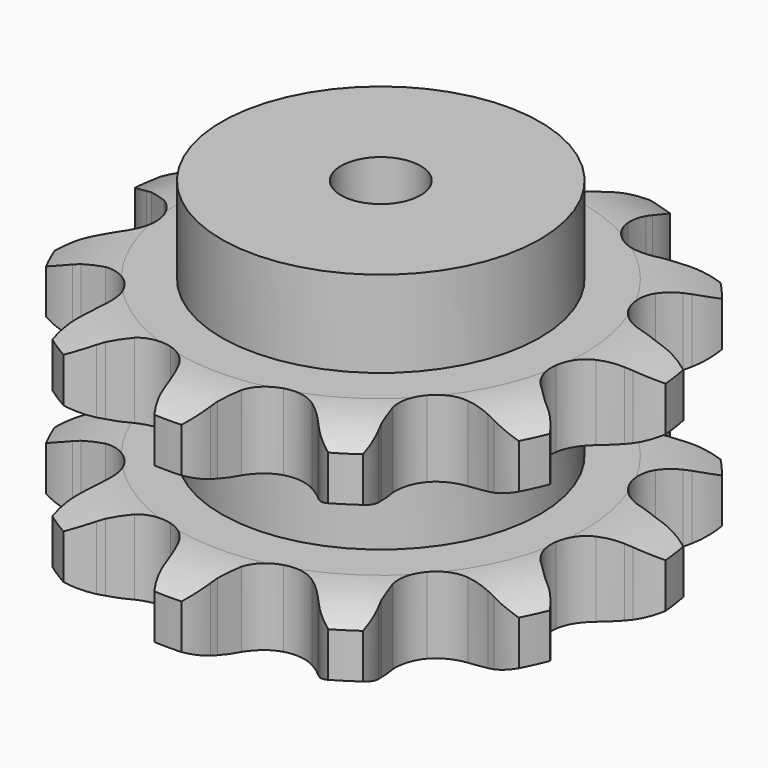
from build123d import *

# Parameters (mm, degrees)
PAD_DEPTH         = 87.4
SKETCH001_R       = 60
PAD001_DEPTH      = 120
SKETCH002_R       = 15
POCKET_DEPTH      = 0.001
POCKET_DEPTH_BACK = 120.001


with BuildPart() as part:
    # Sprocket → Pad (new body)
    with BuildSketch(Plane.XY):
        with BuildLine():
            ThreePointArc((-29.83063, 101.593796), (-22.517795, 96.966518), (-17.239006, 90.109138))
            Line((-17.239006, 90.109138), (-15.985869, 87.706539))
            ThreePointArc((-15.985869, 87.706539), (-13.79197, 84.022252), (-11.197808, 80.607946))
            ThreePointArc((-11.197808, 80.607946), (-6.16635, 76.794521), (0, 75.4403))
            ThreePointArc((0, 75.4403), (6.16635, 76.794521), (11.197808, 80.607946))
            ThreePointArc((11.197808, 80.607946), (13.79197, 84.022252), (15.985869, 87.706539))
            Line((15.985869, 87.706539), (17.239006, 90.109138))
            ThreePointArc((17.239006, 90.109138), (22.517795, 96.966518), (29.83063, 101.593796))
            ThreePointArc((29.83063, 101.593796), (33.480883, 93.747465), (34.214303, 85.124741))
            Line((34.214303, 85.124741), (33.969566, 82.426049))
            ThreePointArc((33.969566, 82.426049), (33.823316, 78.140519), (34.159751, 73.865712))
            ThreePointArc((34.159751, 73.865712), (36.330789, 67.937442), (40.786105, 63.464419))
            ThreePointArc((40.786105, 63.464419), (46.705716, 61.269882), (53.000141, 61.757728))
            Line((53.000141, 61.757728), (60.865904, 65.140822))
            ThreePointArc((60.865904, 65.140822), (62.030524, 65.833607), (63.219053, 66.48452))
            ThreePointArc((63.219053, 66.48452), (71.367232, 69.399387), (80.020876, 69.338484))
            ThreePointArc((80.020876, 69.338484), (78.849617, 60.764254), (74.804813, 53.11384))
            Line((74.804813, 53.11384), (73.139904, 50.975871))
            ThreePointArc((73.139904, 50.975871), (70.699938, 47.449722), (68.67183, 43.671635))
            ThreePointArc((68.67183, 43.671635), (67.293159, 37.510706), (68.62291, 31.339033))
            ThreePointArc((68.62291, 31.339033), (72.416348, 26.292488), (77.975305, 23.299867))
            Line((77.975305, 23.299867), (86.421444, 21.893355))
            ThreePointArc((86.421444, 21.893355), (87.775732, 21.846521), (89.127497, 21.751537))
            ThreePointArc((89.127497, 21.751537), (97.558077, 19.798441), (104.805059, 15.068693))
            ThreePointArc((104.805059, 15.068693), (99.184155, 8.488822), (91.645323, 4.239671))
            Line((91.645323, 4.239671), (89.088839, 3.341214))
            ThreePointArc((89.088839, 3.341214), (85.129829, 1.693974), (81.381088, -0.387877))
            ThreePointArc((81.381088, -0.387877), (76.890427, -4.825415), (74.672426, -10.736274))
            ThreePointArc((74.672426, -10.736274), (75.1353, -17.032585), (78.19386, -22.555537))
            Line((78.19386, -22.555537), (84.538787, -28.305098))
            ThreePointArc((84.538787, -28.305098), (85.652766, -29.07668), (86.73859, -29.887406))
            ThreePointArc((86.73859, -29.887406), (92.774922, -36.08837), (96.314377, -43.985302))
            ThreePointArc((96.314377, -43.985302), (88.028424, -46.481751), (79.389091, -45.980564))
            Line((79.389091, -45.980564), (76.752697, -45.354255))
            ThreePointArc((76.752697, -45.354255), (72.531601, -44.599599), (68.252426, -44.32424))
            ThreePointArc((68.252426, -44.32424), (62.075527, -45.6295), (57.013974, -49.40289))
            ThreePointArc((57.013974, -49.40289), (53.999326, -54.949933), (53.586417, -61.249718))
            Line((53.586417, -61.249718), (55.815662, -69.516882))
            ThreePointArc((55.815662, -69.516882), (56.335652, -70.768242), (56.810794, -72.037308))
            ThreePointArc((56.810794, -72.037308), (58.536385, -80.517379), (57.24456, -89.074274))
            ThreePointArc((57.24456, -89.074274), (48.924291, -86.694697), (41.927383, -81.602295))
            Line((41.927383, -81.602295), (40.048116, -79.650068))
            ThreePointArc((40.048116, -79.650068), (36.905102, -76.733114), (33.454101, -74.187971))
            ThreePointArc((33.454101, -74.187971), (27.552086, -71.946542), (21.253988, -72.384437))
            ThreePointArc((21.253988, -72.384437), (15.718948, -75.421065), (11.965665, -80.497545))
            Line((11.965665, -80.497545), (9.371458, -88.657548))
            ThreePointArc((9.371458, -88.657548), (9.132366, -89.991386), (8.845972, -91.315874))
            ThreePointArc((8.845972, -91.315874), (5.712959, -99.382688), (0, -105.882793))
            ThreePointArc((0, -105.882793), (-5.712959, -99.382688), (-8.845972, -91.315874))
            Line((-8.845972, -91.315874), (-9.371458, -88.657548))
            ThreePointArc((-9.371458, -88.657548), (-10.438506, -84.504408), (-11.965665, -80.497545))
            ThreePointArc((-11.965665, -80.497545), (-15.718948, -75.421065), (-21.253988, -72.384437))
            ThreePointArc((-21.253988, -72.384437), (-27.552086, -71.946542), (-33.454101, -74.187971))
            Line((-33.454101, -74.187971), (-40.048116, -79.650068))
            ThreePointArc((-40.048116, -79.650068), (-40.970381, -80.642901), (-41.927383, -81.602295))
            ThreePointArc((-41.927383, -81.602295), (-48.924291, -86.694697), (-57.24456, -89.074274))
            ThreePointArc((-57.24456, -89.074274), (-58.536385, -80.517379), (-56.810794, -72.037308))
            Line((-56.810794, -72.037308), (-55.815662, -69.516882))
            ThreePointArc((-55.815662, -69.516882), (-54.467962, -65.446149), (-53.586417, -61.249718))
            ThreePointArc((-53.586417, -61.249718), (-53.999326, -54.949933), (-57.013974, -49.40289))
            ThreePointArc((-57.013974, -49.40289), (-62.075527, -45.6295), (-68.252426, -44.32424))
            Line((-68.252426, -44.32424), (-76.752697, -45.354255))
            ThreePointArc((-76.752697, -45.354255), (-78.065322, -45.690865), (-79.389091, -45.980564))
            ThreePointArc((-79.389091, -45.980564), (-88.028424, -46.481751), (-96.314377, -43.985302))
            ThreePointArc((-96.314377, -43.985302), (-92.774922, -36.08837), (-86.73859, -29.887406))
            Line((-86.73859, -29.887406), (-84.538787, -28.305098))
            ThreePointArc((-84.538787, -28.305098), (-81.204225, -25.609201), (-78.19386, -22.555537))
            ThreePointArc((-78.19386, -22.555537), (-75.1353, -17.032585), (-74.672426, -10.736274))
            ThreePointArc((-74.672426, -10.736274), (-76.890427, -4.825415), (-81.381088, -0.387877))
            Line((-81.381088, -0.387877), (-89.088839, 3.341214))
            ThreePointArc((-89.088839, 3.341214), (-90.375075, 3.767698), (-91.645323, 4.239671))
            ThreePointArc((-91.645323, 4.239671), (-99.184155, 8.488822), (-104.805059, 15.068693))
            ThreePointArc((-104.805059, 15.068693), (-97.558077, 19.798441), (-89.127497, 21.751537))
            Line((-89.127497, 21.751537), (-86.421444, 21.893355))
            ThreePointArc((-86.421444, 21.893355), (-82.15872, 22.358488), (-77.975305, 23.299867))
            ThreePointArc((-77.975305, 23.299867), (-72.416348, 26.292488), (-68.62291, 31.339033))
            ThreePointArc((-68.62291, 31.339033), (-67.293159, 37.510706), (-68.67183, 43.671635))
            Line((-68.67183, 43.671635), (-73.139904, 50.975871))
            ThreePointArc((-73.139904, 50.975871), (-73.99138, 52.030043), (-74.804813, 53.11384))
            ThreePointArc((-74.804813, 53.11384), (-78.849617, 60.764254), (-80.020876, 69.338484))
            ThreePointArc((-80.020876, 69.338484), (-71.367232, 69.399387), (-63.219053, 66.48452))
            Line((-63.219053, 66.48452), (-60.865904, 65.140822))
            ThreePointArc((-60.865904, 65.140822), (-57.028402, 63.227515), (-53.000141, 61.757728))
            ThreePointArc((-53.000141, 61.757728), (-46.705716, 61.269882), (-40.786105, 63.464419))
            ThreePointArc((-40.786105, 63.464419), (-36.330789, 67.937442), (-34.159751, 73.865712))
            Line((-34.159751, 73.865712), (-33.969566, 82.426049))
            ThreePointArc((-33.969566, 82.426049), (-34.115944, 83.773218), (-34.214303, 85.124741))
            ThreePointArc((-34.214303, 85.124741), (-33.480883, 93.747465), (-29.83063, 101.593796))
        make_face()
    extrude(amount=PAD_DEPTH)

    # Sketch → Groove (revolve, cut)
    with BuildSketch(Plane.XZ):
        with BuildLine():
            ThreePointArc((76.4, 0), (88.769317, 1.522732), (100.4, 6))
            Line((100.4, 6), (100.4, 22.8))
            ThreePointArc((100.4, 22.8), (88.769317, 27.277268), (76.4, 28.8))
            Line((60, 28.8), (76.4, 28.8))
            Line((60, 58.6), (60, 28.8))
            Line((76.4, 58.6), (60, 58.6))
            ThreePointArc((76.4, 58.6), (88.769317, 60.122732), (100.4, 64.6))
            Line((100.4, 64.6), (100.4, 81.4))
            ThreePointArc((100.4, 81.4), (88.769317, 85.877268), (76.4, 87.4))
            Line((76.4, 87.4), (110.4, 87.4))
            Line((110.4, 87.4), (110.4, 0))
            Line((76.4, 0), (110.4, 0))
        make_face()
    revolve(axis=Axis((0, 0, 0), (0, 0, 1)), mode=Mode.SUBTRACT)

    # Sketch001 → Pad001 (join)
    with BuildSketch(Plane.XY):
        Circle(SKETCH001_R)
    extrude(amount=PAD001_DEPTH)

    # Sketch002 → Pocket (cut, two sides)
    with BuildSketch(Plane.XY) as pocket_sk:
        Circle(SKETCH002_R)
    extrude(amount=-POCKET_DEPTH, mode=Mode.SUBTRACT)
    extrude(pocket_sk.sketch, amount=POCKET_DEPTH_BACK, mode=Mode.SUBTRACT)


solid = part.part
